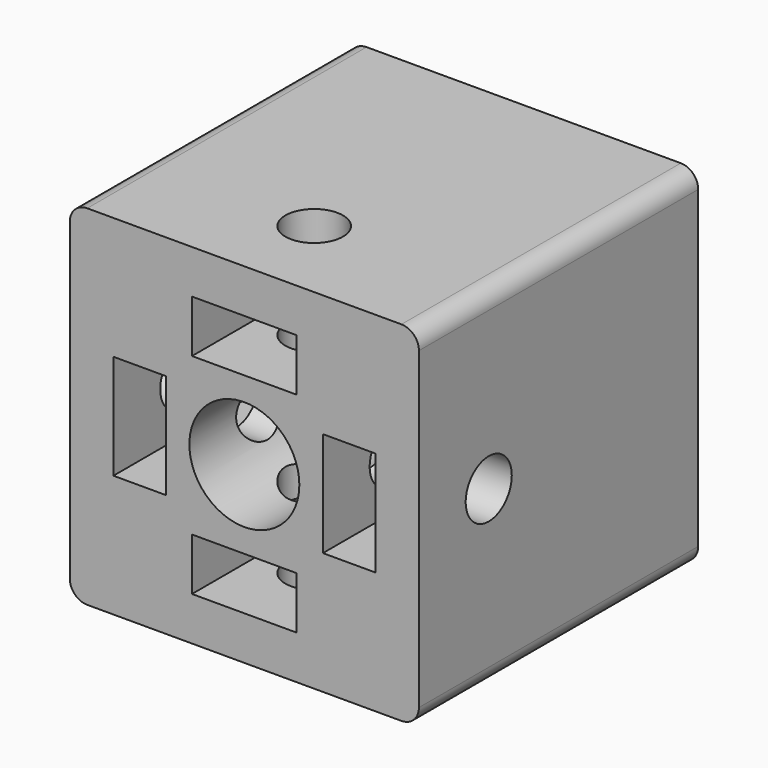
from build123d import *

# Parameters (mm, degrees)
F0_W       = 20
F0_H       = 20
F0_R       = 3.15
F1_DEPTH   = 20
F2_W       = 6
F2_H       = 3
F2_W_2     = 3
F2_H_2     = 6
F3_DEPTH   = 10
F6_D       = 3.3
F6_ON_F5_D = 3.3
F7_R       = 1


with BuildPart() as f1:
    # F0 (on Front) → F1 (new body)
    with BuildSketch(Plane.XZ):
        Rectangle(F0_W, F0_H)
        Circle(F0_R, mode=Mode.SUBTRACT)
    extrude(amount=F1_DEPTH)

    # F2 (on face) → F3 (cut)
    with BuildSketch(Plane.XZ.offset(20)):
        with Locations((0, 6)):
            Rectangle(F2_W, F2_H)
        with Locations((-6, 0)):
            Rectangle(F2_W_2, F2_H_2)
        with Locations((6, 0)):
            Rectangle(F2_W_2, F2_H_2)
        with Locations((0, -6)):
            Rectangle(F2_W, F2_H)
    extrude(amount=-F3_DEPTH, mode=Mode.SUBTRACT)

    # F6 (through all)
    with Locations(Plane.XY.offset(10)):
        with Locations((0, -15)):
            Hole(F6_D / 2)

    # F6 on F5 (through all)
    with Locations(Plane(origin=(-10, 0, 0), x_dir=(0, -1, 0), z_dir=(-1, 0, 0))):
        with Locations((15, 0)):
            Hole(F6_ON_F5_D / 2)

    # F7
    f7_edges = [f1.edges().sort_by_distance(p)[0] for p in [
        (-10, -10, 10),
        (10, -10, 10),
        (-10, -10, -10),
        (10, -10, -10),
    ]]
    fillet(f7_edges, radius=F7_R)


solid = f1.part
